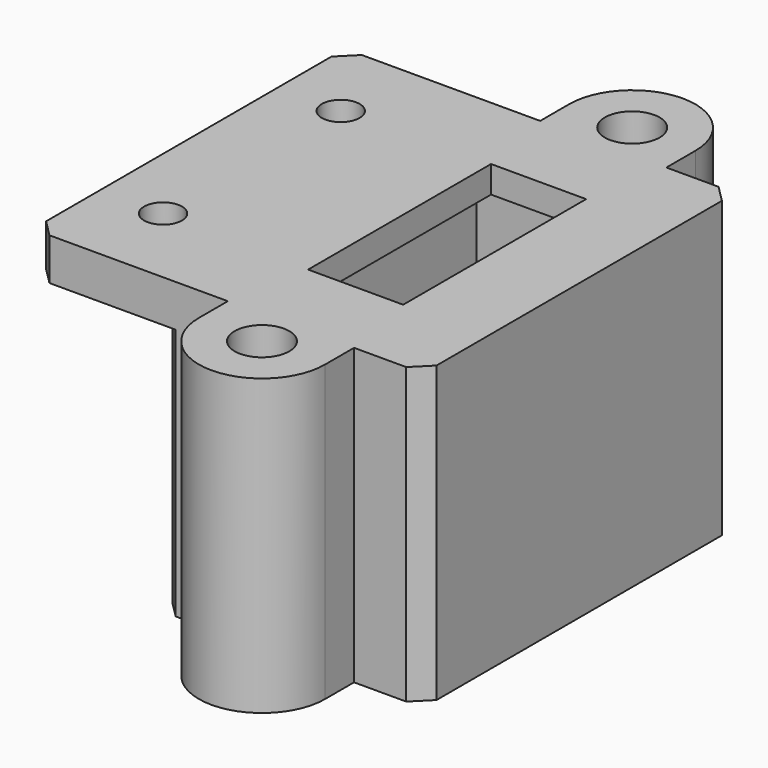
from build123d import *

# Parameters (mm, degrees)
F0_W     = 25
F0_H     = 40
F0_W_2   = 11.3
F0_H_2   = 27.175
F1_DEPTH = 3.2
F2_R     = 3.25
F2_W     = 25
F2_H     = 40
F3_DEPTH = 35
F4_W     = 15
F4_H     = 46.4
F4_R     = 2.25
F5_DEPTH = 5
F6_SIZE  = 2
F7_R     = 3.25
F7_R_2   = 2.25
F8_DEPTH = 3.2


with BuildPart() as f1:
    # F0 (on Top) → F1 (new body)
    with BuildSketch(Plane.XY):
        Rectangle(F0_W, F0_H)
        Rectangle(F0_W_2, F0_H_2, mode=Mode.SUBTRACT)
    extrude(amount=F1_DEPTH)

    # F2 (on face) → F3 (join)
    with BuildSketch(Plane.XY.offset(3.2)):
        with BuildLine():
            Line((15.7, -23.2), (15.7, 23.2))
            Line((15.7, 23.2), (7.5, 23.2))
            Line((7.5, 23.2), (7.5, 27.5))
            ThreePointArc((7.5, 27.5), (0, 35), (-7.5, 27.5))
            Line((-7.5, 27.5), (-7.5, 23.2))
            Line((-7.5, 23.2), (-15.7, 23.2))
            Line((-15.7, 23.2), (-15.7, -23.2))
            Line((-15.7, -23.2), (-7.5, -23.2))
            Line((-7.5, -23.2), (-7.5, -27.5))
            ThreePointArc((-7.5, -27.5), (0, -35), (7.5, -27.5))
            Line((7.5, -27.5), (7.5, -23.2))
            Line((7.5, -23.2), (15.7, -23.2))
        make_face()
        with Locations((0, -27.5)):
            Circle(F2_R, mode=Mode.SUBTRACT)
        Rectangle(F2_W, F2_H, mode=Mode.SUBTRACT)
        with BuildLine():
            ThreePointArc((0, 24.25), (-2.2980970389, 29.7980970389), (3.25, 27.5))
            ThreePointArc((3.25, 27.5), (2.2980970389, 25.2019029611), (0, 24.25))
        make_face(mode=Mode.SUBTRACT)
    extrude(amount=-F3_DEPTH)

    # F4 (on face) → F5 (join)
    with BuildSketch(Plane.XY.offset(3.2)):
        with Locations((-23.2, 0)):
            Rectangle(F4_W, F4_H)
        with Locations((-23.2, -13.2)):
            Circle(F4_R, mode=Mode.SUBTRACT)
        with Locations((-23.2, 13.2)):
            Circle(F4_R, mode=Mode.SUBTRACT)
    extrude(amount=-F5_DEPTH)

    # F6
    f6_edges = [f1.edges().sort_by_distance(p)[0] for p in [
        (15.7, 23.2, -14.3),
        (-15.7, 23.2, -16.8),
        (-15.7, -23.2, -16.8),
        (15.7, -23.2, -14.3),
        (-30.7, 23.2, 0.7),
        (-30.7, -23.2, 0.7),
    ]]
    chamfer(f6_edges, length=F6_SIZE)

    # F7 (on face) → F8 (join)
    with BuildSketch(Plane(origin=(0, 0, -31.8), x_dir=(1, 0, 0), z_dir=(0, 0, -1))):
        with Locations((0, -27.5)):
            Circle(F7_R)
        with Locations((0, -27.5)):
            Circle(F7_R_2, mode=Mode.SUBTRACT)
        with Locations((0, 27.5)):
            Circle(F7_R)
        with Locations((0, 27.5)):
            Circle(F7_R_2, mode=Mode.SUBTRACT)
    extrude(amount=-F8_DEPTH)


solid = f1.part
